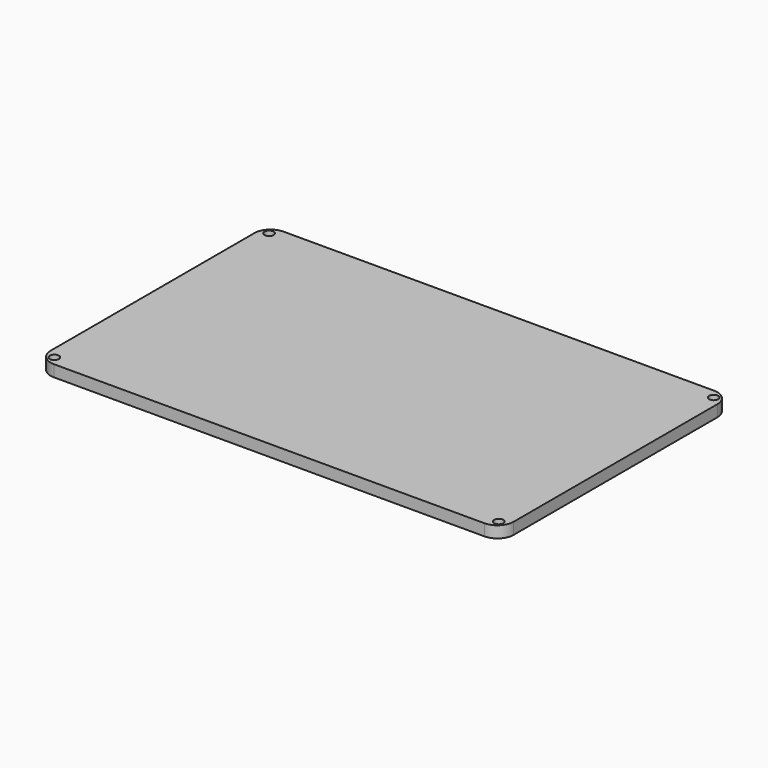
from build123d import *

# Parameters (mm, degrees)
F0_W     = 100
F0_H     = 62
F1_DEPTH = 2.5
F2_R     = 3.5
F4_R     = 1
F5_DEPTH = 1.7


with BuildPart() as f1:
    # F0 (on Top) → F1 (new body)
    with BuildSketch(Plane.XY):
        with Locations((7.72059, -2.837996)):
            Rectangle(F0_W, F0_H)
    extrude(amount=F1_DEPTH)

    # F2
    f2_edges = [f1.edges().sort_by_distance(p)[0] for p in [
        (-42.27941, -33.837996, 1.25),
        (-42.27941, 28.162004, 1.25),
        (57.72059, 28.162004, 1.25),
        (57.72059, -33.837996, 1.25),
    ]]
    fillet(f2_edges, radius=F2_R)

    # F4 (on face) → F5 (cut)
    with BuildSketch(Plane.XY.offset(2.5)):
        with Locations((-40.27941, 26.162004)):
            Circle(F4_R)
        with Locations((-40.27941, -31.837996)):
            Circle(F4_R)
        with Locations((55.72059, 26.162004)):
            Circle(F4_R)
        with Locations((55.72059, -31.837996)):
            Circle(F4_R)
    extrude(amount=-F5_DEPTH, mode=Mode.SUBTRACT)


solid = f1.part
